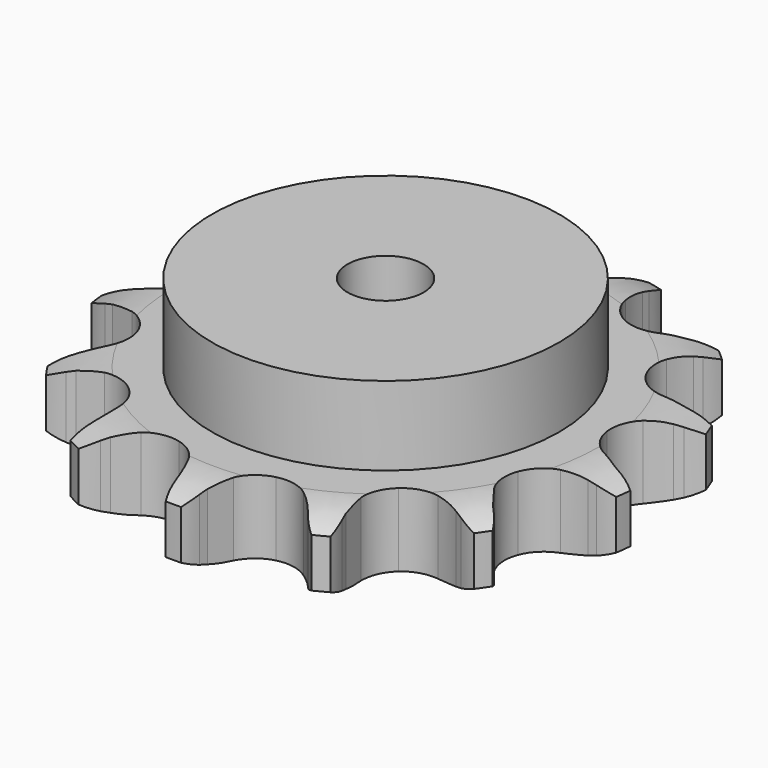
from build123d import *

# Parameters (mm, degrees)
PAD_DEPTH         = 24.1
SKETCH001_R       = 57
PAD001_DEPTH      = 50
SKETCH002_R       = 12.5
POCKET_DEPTH      = 0.001
POCKET_DEPTH_BACK = -50.001


with BuildPart() as part:
    # Sprocket → Pad (new body)
    with BuildSketch(Plane.XY):
        with BuildLine():
            ThreePointArc((-21.75253, 88.253485), (-18.049678, 84.737673), (-15.285411, 80.444554))
            Line((-15.285411, 80.444554), (-14.135613, 78.079063))
            ThreePointArc((-14.135613, 78.079063), (-12.197192, 74.631347), (-9.861611, 71.439282))
            ThreePointArc((-9.861611, 71.439282), (-5.449101, 68.018011), (0, 66.800377))
            ThreePointArc((0, 66.800377), (5.449101, 68.018011), (9.861611, 71.439282))
            ThreePointArc((9.861611, 71.439282), (12.197192, 74.631347), (14.135613, 78.079063))
            Line((14.135613, 78.079063), (15.285411, 80.444554))
            ThreePointArc((15.285411, 80.444554), (18.049678, 84.737673), (21.75253, 88.253485))
            ThreePointArc((21.75253, 88.253485), (23.397364, 83.419587), (23.849889, 78.3336))
            Line((23.849889, 78.3336), (23.768686, 75.704723))
            ThreePointArc((23.768686, 75.704723), (23.88284, 71.751094), (24.467467, 67.839262))
            ThreePointArc((24.467467, 67.839262), (26.784607, 62.759281), (31.043683, 59.148796))
            ThreePointArc((31.043683, 59.148796), (36.434485, 57.694634), (41.931512, 58.673423))
            Line((41.931512, 58.673423), (48.801613, 62.56643))
            ThreePointArc((48.801613, 62.56643), (49.844818, 63.367556), (50.919008, 64.12663))
            ThreePointArc((50.919008, 64.12663), (55.361757, 66.64338), (60.274348, 68.035675))
            ThreePointArc((60.274348, 68.035675), (59.484352, 62.991079), (57.521467, 58.277362))
            Line((57.521467, 58.277362), (56.227866, 55.987344))
            ThreePointArc((56.227866, 55.987344), (54.4916, 52.433529), (53.191343, 48.698084))
            ThreePointArc((53.191343, 48.698084), (52.882284, 43.123157), (54.975632, 37.946939))
            ThreePointArc((54.975632, 37.946939), (59.073168, 34.154112), (64.39541, 32.466191))
            Line((64.39541, 32.466191), (72.287752, 32.720582))
            ThreePointArc((72.287752, 32.720582), (73.583766, 32.945142), (74.887674, 33.118068))
            ThreePointArc((74.887674, 33.118068), (79.991124, 33.281891), (84.98804, 32.231712))
            ThreePointArc((84.98804, 32.231712), (81.944192, 28.132074), (78.01557, 24.870483))
            Line((78.01557, 24.870483), (75.805919, 23.443939))
            ThreePointArc((75.805919, 23.443939), (72.616992, 21.104075), (69.729723, 18.400763))
            ThreePointArc((69.729723, 18.400763), (66.865267, 13.608036), (66.313327, 8.051896))
            ThreePointArc((66.313327, 8.051896), (68.1789, 2.789294), (72.107095, -1.178655))
            Line((72.107095, -1.178655), (79.213638, -4.621157))
            ThreePointArc((79.213638, -4.621157), (80.46556, -5.024606), (81.700476, -5.477444))
            ThreePointArc((81.700476, -5.477444), (86.295489, -7.704078), (90.231995, -10.956148))
            ThreePointArc((90.231995, -10.956148), (85.631605, -13.171651), (80.637246, -14.233924))
            Line((80.637246, -14.233924), (78.017749, -14.47019))
            ThreePointArc((78.017749, -14.47019), (74.106706, -15.060068), (70.293864, -16.111952))
            ThreePointArc((70.293864, -16.111952), (65.530223, -19.024521), (62.459437, -23.68774))
            ThreePointArc((62.459437, -23.68774), (61.665668, -29.214517), (63.299913, -34.553485))
            Line((63.299913, -34.553485), (67.992634, -40.904245))
            ThreePointArc((67.992634, -40.904245), (68.913664, -41.843278), (69.796683, -42.81814))
            ThreePointArc((69.796683, -42.81814), (72.830597, -46.925135), (74.804888, -51.634086))
            ThreePointArc((74.804888, -51.634086), (69.701849, -51.457909), (64.785901, -50.077511))
            Line((64.785901, -50.077511), (62.356654, -49.069373))
            ThreePointArc((62.356654, -49.069373), (58.619466, -47.774131), (54.754528, -46.933613))
            ThreePointArc((54.754528, -46.933613), (49.182995, -47.29879), (44.296844, -50.0008))
            ThreePointArc((44.296844, -50.0008), (41.025574, -54.525635), (39.991485, -60.012528))
            Line((39.991485, -60.012528), (41.195337, -67.816663))
            ThreePointArc((41.195337, -67.816663), (41.574478, -69.076159), (41.903312, -70.349716))
            ThreePointArc((41.903312, -70.349716), (42.681093, -75.39621), (42.240883, -80.483278))
            ThreePointArc((42.240883, -80.483278), (37.80424, -77.95578), (34.092887, -74.448943))
            Line((34.092887, -74.448943), (32.4104, -72.427353))
            ThreePointArc((32.4104, -72.427353), (29.703214, -69.543717), (26.67159, -67.003348))
            ThreePointArc((26.67159, -67.003348), (21.568536, -64.737476), (15.986377, -64.859279))
            ThreePointArc((15.986377, -64.859279), (10.987016, -67.345587), (7.521489, -71.723424))
            Line((7.521489, -71.723424), (4.960685, -79.193101))
            ThreePointArc((4.960685, -79.193101), (4.71108, -80.484525), (4.410397, -81.76502))
            ThreePointArc((4.410397, -81.76502), (2.753865, -86.594921), (0, -90.89472))
            ThreePointArc((0, -90.89472), (-2.753865, -86.594921), (-4.410397, -81.76502))
            Line((-4.410397, -81.76502), (-4.960685, -79.193101))
            ThreePointArc((-4.960685, -79.193101), (-6.017687, -75.381675), (-7.521489, -71.723424))
            ThreePointArc((-7.521489, -71.723424), (-10.987016, -67.345587), (-15.986377, -64.859279))
            ThreePointArc((-15.986377, -64.859279), (-21.568536, -64.737476), (-26.67159, -67.003348))
            Line((-26.67159, -67.003348), (-32.4104, -72.427353))
            ThreePointArc((-32.4104, -72.427353), (-33.231569, -73.454855), (-34.092887, -74.448943))
            ThreePointArc((-34.092887, -74.448943), (-37.80424, -77.95578), (-42.240883, -80.483278))
            ThreePointArc((-42.240883, -80.483278), (-42.681093, -75.39621), (-41.903312, -70.349716))
            Line((-41.903312, -70.349716), (-41.195337, -67.816663))
            ThreePointArc((-41.195337, -67.816663), (-40.360008, -63.9506), (-39.991485, -60.012528))
            ThreePointArc((-39.991485, -60.012528), (-41.025574, -54.525635), (-44.296844, -50.0008))
            ThreePointArc((-44.296844, -50.0008), (-49.182995, -47.29879), (-54.754528, -46.933613))
            Line((-54.754528, -46.933613), (-62.356654, -49.069373))
            ThreePointArc((-62.356654, -49.069373), (-63.561267, -49.597564), (-64.785901, -50.077511))
            ThreePointArc((-64.785901, -50.077511), (-69.701849, -51.457909), (-74.804888, -51.634086))
            ThreePointArc((-74.804888, -51.634086), (-72.830597, -46.925135), (-69.796683, -42.81814))
            Line((-69.796683, -42.81814), (-67.992634, -40.904245))
            ThreePointArc((-67.992634, -40.904245), (-65.456338, -37.869213), (-63.299913, -34.553485))
            ThreePointArc((-63.299913, -34.553485), (-61.665668, -29.214517), (-62.459437, -23.68774))
            ThreePointArc((-62.459437, -23.68774), (-65.530223, -19.024521), (-70.293864, -16.111952))
            Line((-70.293864, -16.111952), (-78.017749, -14.47019))
            ThreePointArc((-78.017749, -14.47019), (-79.329844, -14.378068), (-80.637246, -14.233924))
            ThreePointArc((-80.637246, -14.233924), (-85.631605, -13.171651), (-90.231995, -10.956148))
            ThreePointArc((-90.231995, -10.956148), (-86.295489, -7.704078), (-81.700476, -5.477444))
            Line((-81.700476, -5.477444), (-79.213638, -4.621157))
            ThreePointArc((-79.213638, -4.621157), (-75.55741, -3.112445), (-72.107095, -1.178655))
            ThreePointArc((-72.107095, -1.178655), (-68.1789, 2.789294), (-66.313327, 8.051896))
            ThreePointArc((-66.313327, 8.051896), (-66.865267, 13.608036), (-69.729723, 18.400763))
            Line((-69.729723, 18.400763), (-75.805919, 23.443939))
            ThreePointArc((-75.805919, 23.443939), (-76.92491, 24.135269), (-78.01557, 24.870483))
            ThreePointArc((-78.01557, 24.870483), (-81.944192, 28.132074), (-84.98804, 32.231712))
            ThreePointArc((-84.98804, 32.231712), (-79.991124, 33.281891), (-74.887674, 33.118068))
            Line((-74.887674, 33.118068), (-72.287752, 32.720582))
            ThreePointArc((-72.287752, 32.720582), (-68.349189, 32.357345), (-64.39541, 32.466191))
            ThreePointArc((-64.39541, 32.466191), (-59.073168, 34.154112), (-54.975632, 37.946939))
            ThreePointArc((-54.975632, 37.946939), (-52.882284, 43.123157), (-53.191343, 48.698084))
            Line((-53.191343, 48.698084), (-56.227866, 55.987344))
            ThreePointArc((-56.227866, 55.987344), (-56.897406, 57.119508), (-57.521467, 58.277362))
            ThreePointArc((-57.521467, 58.277362), (-59.484352, 62.991079), (-60.274348, 68.035675))
            ThreePointArc((-60.274348, 68.035675), (-55.361757, 66.64338), (-50.919008, 64.12663))
            Line((-50.919008, 64.12663), (-48.801613, 62.56643))
            ThreePointArc((-48.801613, 62.56643), (-45.482993, 60.414459), (-41.931512, 58.673423))
            ThreePointArc((-41.931512, 58.673423), (-36.434485, 57.694634), (-31.043683, 59.148796))
            ThreePointArc((-31.043683, 59.148796), (-26.784607, 62.759281), (-24.467467, 67.839262))
            Line((-24.467467, 67.839262), (-23.768686, 75.704723))
            ThreePointArc((-23.768686, 75.704723), (-23.835392, 77.018355), (-23.849889, 78.3336))
            ThreePointArc((-23.849889, 78.3336), (-23.397364, 83.419587), (-21.75253, 88.253485))
        make_face()
    extrude(amount=PAD_DEPTH)

    # Sketch → Groove (revolve, cut)
    with BuildSketch(Plane.XZ):
        with BuildLine():
            Line((70.129437, 0), (87.1, 0))
            Line((104.070563, 0), (87.1, 0))
            Line((104.070563, 24.1), (104.070563, 0))
            Line((87.1, 24.1), (104.070563, 24.1))
            Line((70.129437, 24.1), (87.1, 24.1))
            ThreePointArc((87.1, 20.1), (78.847235, 23.086484), (70.129437, 24.1))
            Line((87.1, 4), (87.1, 20.1))
            ThreePointArc((70.129437, 0), (78.847235, 1.013516), (87.1, 4))
        make_face()
    revolve(axis=Axis((0, 0, 0), (0, 0, 1)), mode=Mode.SUBTRACT)

    # Sketch001 → Pad001 (join)
    with BuildSketch(Plane.XY):
        Circle(SKETCH001_R)
    extrude(amount=PAD001_DEPTH)

    # Sketch002 → Pocket (cut, two sides)
    with BuildSketch(Plane.XY) as pocket_sk:
        Circle(SKETCH002_R)
    extrude(amount=-POCKET_DEPTH, mode=Mode.SUBTRACT)
    extrude(pocket_sk.sketch, amount=-POCKET_DEPTH_BACK, mode=Mode.SUBTRACT)


solid = part.part
